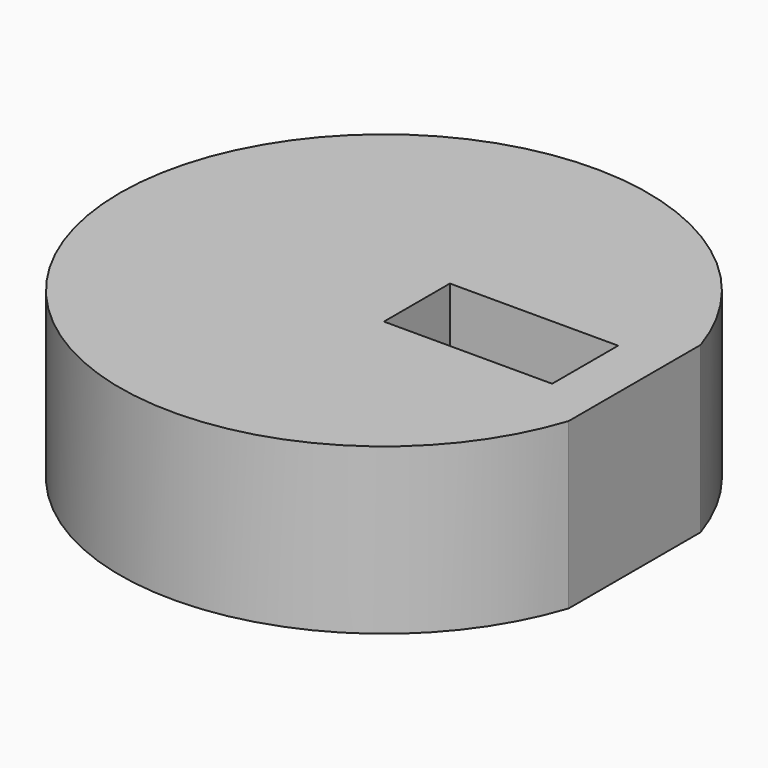
from build123d import *

# Parameters (mm, degrees)
F0_R     = 50.8
F1_DEPTH = 15.875
F2_W     = 2.544178
F2_H     = 31.75
F3_DEPTH = 31.75
F4_W     = 32.380822
F4_H     = 15.875
F5_DEPTH = 31.75


with BuildPart() as f1:
    # F0 (on Top) → F1 (new body, symmetric)
    with BuildSketch(Plane.XY):
        Circle(F0_R)
    extrude(amount=F1_DEPTH, both=True)

    # F2 (on face) → F3 (cut, through all)
    with BuildSketch(Plane.XY.offset(15.875)):
        with Locations((49.527911, 0)):
            Rectangle(F2_W, F2_H)
    extrude(amount=-F3_DEPTH, mode=Mode.SUBTRACT)

    # F4 (on face) → F5 (cut, through all)
    with BuildSketch(Plane.XY.offset(15.875)):
        with Locations((22.540411, 0)):
            Rectangle(F4_W, F4_H)
    extrude(amount=-F5_DEPTH, mode=Mode.SUBTRACT)


solid = f1.part
